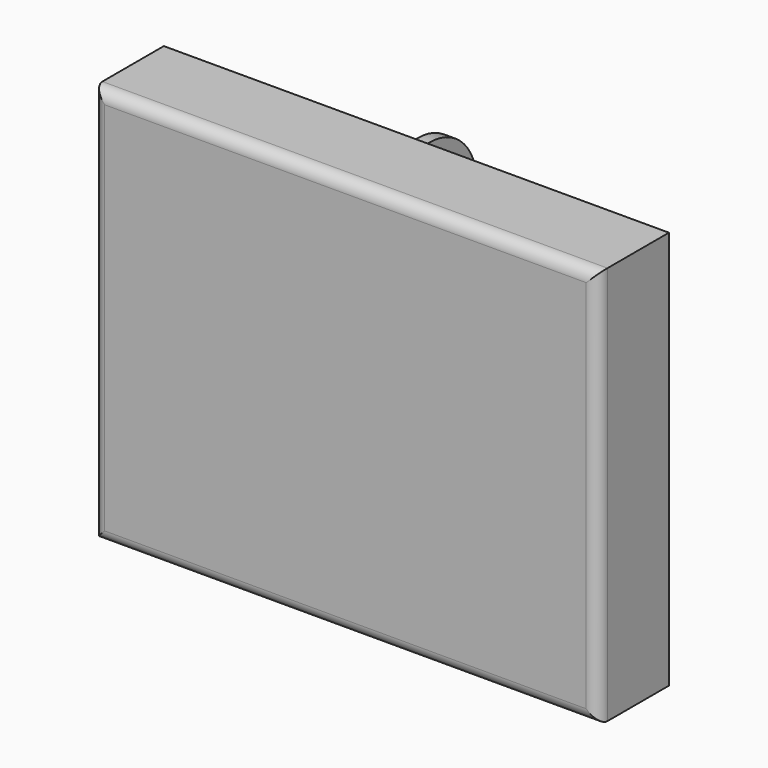
from build123d import *

# Parameters (mm, degrees)
SKETCH002_W                  = 85.5
SKETCH002_H                  = 67.5
PAD_DEPTH                    = 7.5
POCKET_DEPTH                 = 18
POCKET_LINEARPATTERN_2_DEPTH = 18
LINEARPATTERN001_COUNT       = 2
LINEARPATTERN001_PITCH       = 44
SKETCH003_W                  = 21
SKETCH003_H                  = 26
POCKET001_DEPTH              = 20
LINEARPATTERN002_COUNT       = 3
LINEARPATTERN002_PITCH       = 31
SKETCH004_W                  = 6.5
SKETCH004_H                  = 26
POCKET002_DEPTH              = 6
LINEARPATTERN003_COUNT       = 2
LINEARPATTERN003_PITCH       = 31
PAD001_DEPTH                 = 1
FILLET_R                     = 2


with BuildPart() as part:
    # Sketch002 → Pad (new body, symmetric)
    with BuildSketch(Plane.XZ):
        Rectangle(SKETCH002_W, SKETCH002_H)
    extrude(amount=PAD_DEPTH, both=True)

    # Sketch → Pocket (cut, symmetric)
    with BuildSketch(Plane(origin=(-22, 6, 24), x_dir=(0, 0, 1), z_dir=(1, 0, 0))):
        with BuildLine():
            ThreePointArc((-7.314507, 4.802134), (0, -8.75), (7.314507, 4.802134))
            ThreePointArc((7.314507, 4.802134), (4.058795, 8.698798), (0, 11.75))
            ThreePointArc((0, 11.75), (-4.058795, 8.698798), (-7.314507, 4.802134))
        make_face()
    pocket = extrude(amount=POCKET_DEPTH, both=True, mode=Mode.SUBTRACT)

    # Sketch LinearPattern 2 → Pocket LinearPattern 2 (cut, symmetric)
    with BuildSketch(Plane(origin=(-22, 6, 5), x_dir=(0, 0, 1), z_dir=(1, 0, 0))):
        with BuildLine():
            ThreePointArc((-7.314507, 4.802134), (0, -8.75), (7.314507, 4.802134))
            ThreePointArc((7.314507, 4.802134), (4.058795, 8.698798), (0, 11.75))
            ThreePointArc((0, 11.75), (-4.058795, 8.698798), (-7.314507, 4.802134))
        make_face()
    pocket_linearpattern_2 = extrude(amount=POCKET_LINEARPATTERN_2_DEPTH, both=True, mode=Mode.SUBTRACT)

    # LinearPattern001: Pocket, Pocket LinearPattern 2 ×2
    with Locations(*[(i * LINEARPATTERN001_PITCH, 0, 0) for i in range(1, LINEARPATTERN001_COUNT)]):
        add(pocket, mode=Mode.SUBTRACT)
        add(pocket_linearpattern_2, mode=Mode.SUBTRACT)

    # Sketch003 → Pocket001 (cut)
    with BuildSketch(Plane(origin=(-31, -7, -19), x_dir=(1, 0, 0), z_dir=(0, -1, 0))):
        Rectangle(SKETCH003_W, SKETCH003_H)
    pocket001 = extrude(amount=-POCKET001_DEPTH, mode=Mode.SUBTRACT)

    # LinearPattern002: Pocket001 ×3
    with Locations(*[(i * LINEARPATTERN002_PITCH, 0, 0) for i in range(1, LINEARPATTERN002_COUNT)]):
        add(pocket001, mode=Mode.SUBTRACT)

    # Sketch004 → Pocket002 (cut)
    with BuildSketch(Plane(origin=(15.5, 2, -19), x_dir=(1, 0, 0), z_dir=(0, -1, 0))):
        Rectangle(SKETCH004_W, SKETCH004_H)
    pocket002 = extrude(amount=-POCKET002_DEPTH, mode=Mode.SUBTRACT)

    # LinearPattern003: Pocket002 ×2
    with Locations(*[(-i * LINEARPATTERN003_PITCH, 0, 0) for i in range(1, LINEARPATTERN003_COUNT)]):
        add(pocket002, mode=Mode.SUBTRACT)

    # Sketch005 → Pad001 (join, symmetric)
    with BuildSketch(Plane.YZ):
        with BuildLine():
            ThreePointArc((19, 23), (9, 33), (-1, 23))
            Line((-1, 23), (-1, 5))
            ThreePointArc((-1, 5), (9, -5), (19, 5))
            Line((19, 23), (19, 5))
        make_face()
    extrude(amount=PAD001_DEPTH, both=True)

    # Fillet
    fillet_edges = [part.edges().sort_by_distance(p)[0] for p in [
        (0, -7.5, 33.75),
        (42.75, -7.5, 0),
        (0, -7.5, -33.75),
        (-42.75, -7.5, 0),
    ]]
    fillet(fillet_edges, radius=FILLET_R)


solid = part.part
